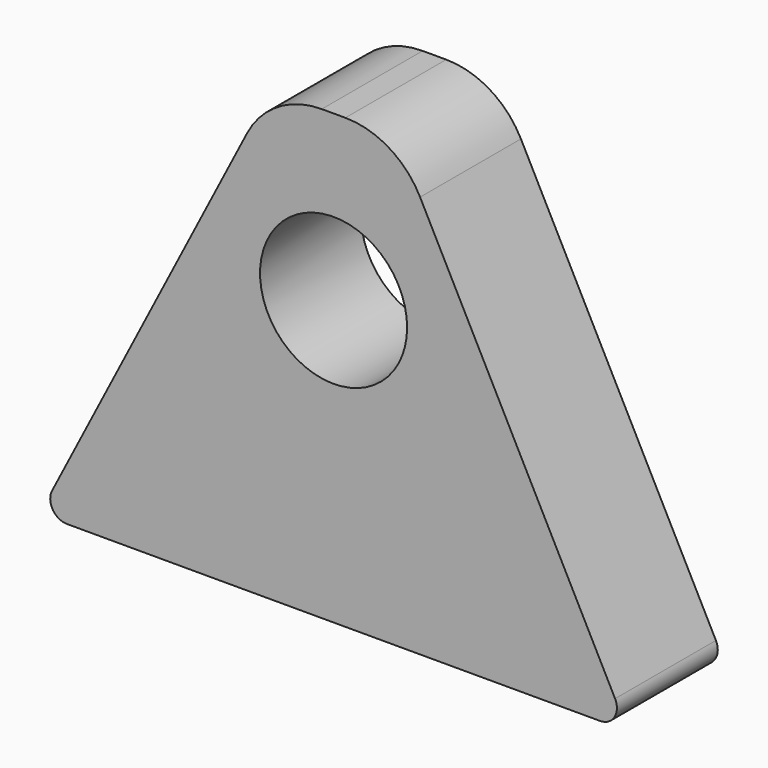
from build123d import *

# Parameters (mm, degrees)
F0_R     = 11.1125
F1_DEPTH = 19.05
F2_R     = 12.7
F3_R     = 2.54


with BuildPart() as f1:
    # F0 (on Front) → F1 (new body)
    with BuildSketch(Plane.XZ):
        Polygon((-15.586365, 80.178106), (-50.511365, 12.453041), (38.388635, 12.453041), (3.463635, 80.178106), align=None)
        with Locations((-6.061365, 55.315541)):
            Circle(F0_R, mode=Mode.SUBTRACT)
    extrude(amount=F1_DEPTH)

    # F2
    f2_edges = [f1.edges().sort_by_distance(p)[0] for p in [
        (-15.586365, -9.525, 80.178106),
        (3.463635, -9.525, 80.178106),
    ]]
    fillet(f2_edges, radius=F2_R)

    # F3
    f3_edges = [f1.edges().sort_by_distance(p)[0] for p in [
        (-50.511365, -9.525, 12.453041),
        (38.388635, -9.525, 12.453041),
    ]]
    fillet(f3_edges, radius=F3_R)


solid = f1.part
